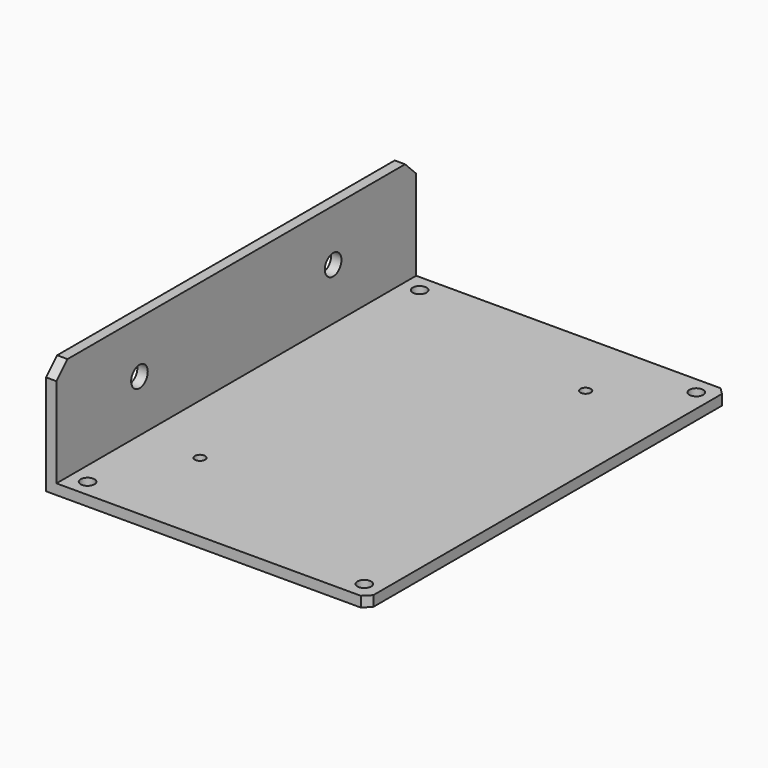
from build123d import *

# Parameters (mm, degrees)
SKETCH_W        = 93
SKETCH_H        = 130
SKETCH_R        = 1.5
SKETCH_R_2      = 2
PAD_DEPTH       = 3
SKETCH001_W     = 3
SKETCH001_H     = 130
PAD001_DEPTH    = 30
SKETCH002_R     = 3
POCKET_DEPTH    = 3.001
CHAMFER_SIZE    = 2
CHAMFER001_SIZE = 4


with BuildPart() as part:
    # Sketch → Pad (new body)
    with BuildSketch(Plane.XY):
        with Locations((46.5, 65)):
            Rectangle(SKETCH_W, SKETCH_H)
        with Locations((20.5, 30)):
            Circle(SKETCH_R, mode=Mode.SUBTRACT)
        with Locations((68, 110)):
            Circle(SKETCH_R, mode=Mode.SUBTRACT)
        with Locations((8, 125)):
            Circle(SKETCH_R_2, mode=Mode.SUBTRACT)
        with Locations((88, 125)):
            Circle(SKETCH_R_2, mode=Mode.SUBTRACT)
        with Locations((88, 5)):
            Circle(SKETCH_R_2, mode=Mode.SUBTRACT)
        with Locations((8, 5)):
            Circle(SKETCH_R_2, mode=Mode.SUBTRACT)
    extrude(amount=PAD_DEPTH)

    # Sketch001 (on Face12 of Pad) → Pad001 (join)
    with BuildSketch(Plane.XY.offset(3)):
        with Locations((1.5, 65)):
            Rectangle(SKETCH001_W, SKETCH001_H)
    extrude(amount=PAD001_DEPTH)

    # Sketch002 (on Face15 of Pad001) → Pocket (cut, through all)
    with BuildSketch(Plane.YZ.offset(3)):
        with Locations((30, 18)):
            Circle(SKETCH002_R)
        with Locations((100, 18)):
            Circle(SKETCH002_R)
    extrude(amount=-POCKET_DEPTH, mode=Mode.SUBTRACT)

    # Chamfer
    chamfer_edges = [part.edges().sort_by_distance(p)[0] for p in [
        (93, 0, 1.5),
        (93, 130, 1.5),
    ]]
    chamfer(chamfer_edges, length=CHAMFER_SIZE)

    # Chamfer001
    chamfer001_edges = [part.edges().sort_by_distance(p)[0] for p in [
        (1.5, 0, 33),
        (1.5, 130, 33),
    ]]
    chamfer(chamfer001_edges, length=CHAMFER001_SIZE)


solid = part.part
